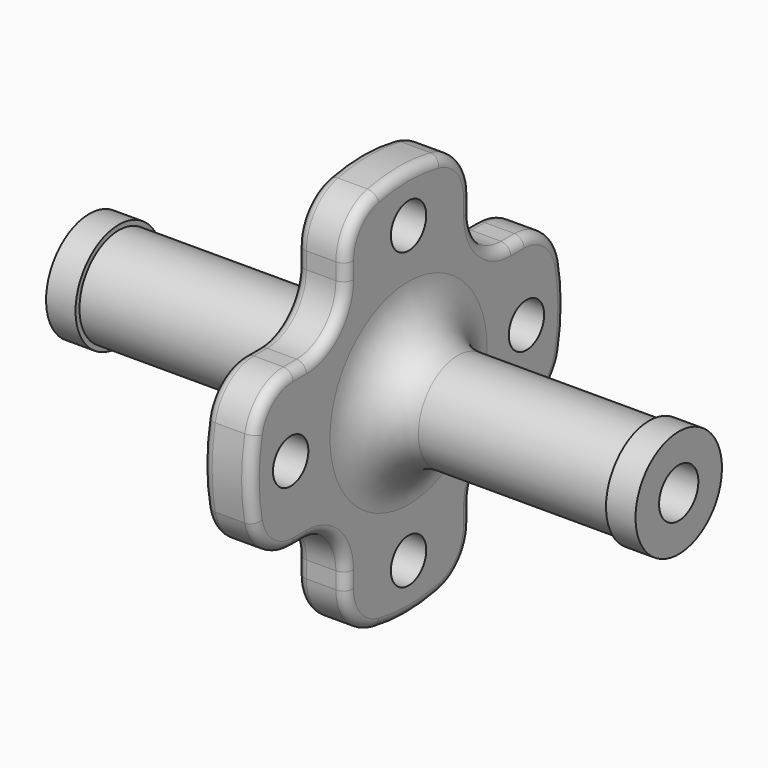
from build123d import *

# Parameters (mm, degrees)
F2_R     = 2.25
F2_W     = 10.8512681909
F2_H     = 10.8512681909
F3_DEPTH = 50
F4_R     = 5
F5_R     = 5
F6_R     = 1


with BuildPart() as f1:
    # F0 (on Front) → F1 (revolve)
    with BuildSketch(Plane.XZ):
        Polygon((-30, 5.5), (-30, 2.5), (30, 2.5), (30, 5.5), (27, 5.5), (27, 5), (2.5, 5), (2.5, 20), (-2.5, 20), (-2.5, 5), (-27, 5), (-27, 5.5), align=None)
    revolve(axis=Axis((4.0007922798, 0, 0), (1, 0, 0)))

    # F2 (on Right) → F3 (cut, symmetric)
    with BuildSketch(Plane.YZ):
        with Locations((0, 15)):
            Circle(F2_R)
        with Locations((0, -15)):
            Circle(F2_R)
        with Locations((15, 0)):
            Circle(F2_R)
        with Locations((-15, 0)):
            Circle(F2_R)
        with Locations((-13.4256340954, 13.4256340954)):
            Rectangle(F2_W, F2_H)
        with Locations((-13.4256340954, -13.4256340954)):
            Rectangle(F2_W, F2_H)
        with Locations((13.4256340954, -13.4256340954)):
            Rectangle(F2_W, F2_H)
        with Locations((13.4256340954, 13.4256340954)):
            Rectangle(F2_W, F2_H)
    extrude(amount=F3_DEPTH, both=True, mode=Mode.SUBTRACT)

    # F4
    f4_edges = [f1.edges().sort_by_distance(p)[0] for p in [
        (0, -8, 8),
        (0, -18.330303, 8),
        (0, -8, 18.330303),
        (0, -18.330303, -8),
        (0, -8, -18.330303),
        (0, -8, -8),
        (0, 8, -8),
        (0, 8, -18.330303),
        (0, 18.330303, -8),
        (0, 8, 8),
        (0, 18.330303, 8),
        (0, 8, 18.330303),
    ]]
    fillet(f4_edges, radius=F4_R)

    # F5
    f5_edges = [f1.edges().sort_by_distance(p)[0] for p in [
        (2.5, 0, -5),
        (-2.5, 0, -5),
    ]]
    fillet(f5_edges, radius=F5_R)

    # F6
    f6_edges = [f1.edges().sort_by_distance(p)[0] for p in [
        (-2.5, -20, 0),
        (2.5, -20, 0),
    ]]
    fillet(f6_edges, radius=F6_R)


solid = f1.part
